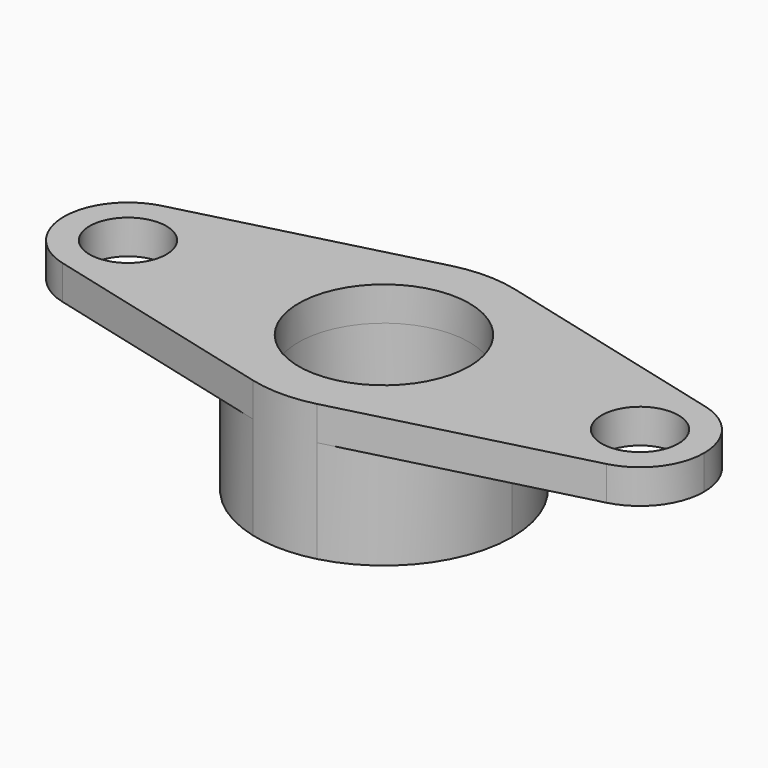
from build123d import *

# Parameters (mm, degrees)
F0_R     = 2.25
F0_R_2   = 5
F1_DEPTH = 2
F2_DEPTH = 6


with BuildPart() as f1:
    # F0 (on Top) → F1 (new body)
    with BuildSketch(Plane.XY):
        with BuildLine():
            ThreePointArc((-11.25, 0), (-12.7036033661, 2.9646353064), (-15.9375, 3.6309218871))
            ThreePointArc((-15.9375, 3.6309218871), (-18.75, 0), (-15.9375, -3.6309218871))
            ThreePointArc((-15.9375, -3.6309218871), (-12.7036033661, -2.9646353064), (-11.25, 0))
        make_face()
        with Locations((-15, 0)):
            Circle(F0_R, mode=Mode.SUBTRACT)
        with BuildLine():
            ThreePointArc((-1.875, -7.2618437741), (-7.5, 0), (-1.875, 7.2618437741))
            Line((-1.875, 7.2618437741), (-15.9375, 3.6309218871))
            ThreePointArc((-15.9375, 3.6309218871), (-12.7036033661, 2.9646353064), (-11.25, 0))
            ThreePointArc((-11.25, 0), (-12.7036033661, -2.9646353064), (-15.9375, -3.6309218871))
            Line((-15.9375, -3.6309218871), (-1.875, -7.2618437741))
        make_face()
        with BuildLine():
            ThreePointArc((1.875, 7.2618437741), (5.9292706128, 4.5927932677), (7.5, 0))
            ThreePointArc((7.5, 0), (5.9292706128, -4.5927932677), (1.875, -7.2618437741))
            Line((1.875, -7.2618437741), (15.9375, -3.6309218871))
            ThreePointArc((15.9375, -3.6309218871), (11.25, 0), (15.9375, 3.6309218871))
            Line((15.9375, 3.6309218871), (1.875, 7.2618437741))
        make_face()
        with BuildLine():
            ThreePointArc((18.75, 0), (17.9646353064, 2.2963966339), (15.9375, 3.6309218871))
            ThreePointArc((15.9375, 3.6309218871), (11.25, 0), (15.9375, -3.6309218871))
            ThreePointArc((15.9375, -3.6309218871), (17.9646353064, -2.2963966339), (18.75, 0))
        make_face()
        with Locations((15, 0)):
            Circle(F0_R, mode=Mode.SUBTRACT)
        with BuildLine():
            ThreePointArc((1.875, -7.2618437741), (5.9292706128, -4.5927932677), (7.5, 0))
            ThreePointArc((7.5, 0), (5.9292706128, 4.5927932677), (1.875, 7.2618437741))
            ThreePointArc((1.875, 7.2618437741), (0, 7.5), (-1.875, 7.2618437741))
            ThreePointArc((-1.875, 7.2618437741), (-7.5, 0), (-1.875, -7.2618437741))
            ThreePointArc((-1.875, -7.2618437741), (0, -7.5), (1.875, -7.2618437741))
        make_face()
        Circle(F0_R_2, mode=Mode.SUBTRACT)
    extrude(amount=F1_DEPTH)

    # F0 (on Top) → F2 (join)
    with BuildSketch(Plane.XY):
        with BuildLine():
            ThreePointArc((1.875, -7.2618437741), (5.9292706128, -4.5927932677), (7.5, 0))
            ThreePointArc((7.5, 0), (5.9292706128, 4.5927932677), (1.875, 7.2618437741))
            ThreePointArc((1.875, 7.2618437741), (0, 7.5), (-1.875, 7.2618437741))
            ThreePointArc((-1.875, 7.2618437741), (-7.5, 0), (-1.875, -7.2618437741))
            ThreePointArc((-1.875, -7.2618437741), (0, -7.5), (1.875, -7.2618437741))
        make_face()
        Circle(F0_R_2, mode=Mode.SUBTRACT)
    extrude(amount=-F2_DEPTH)


solid = f1.part
